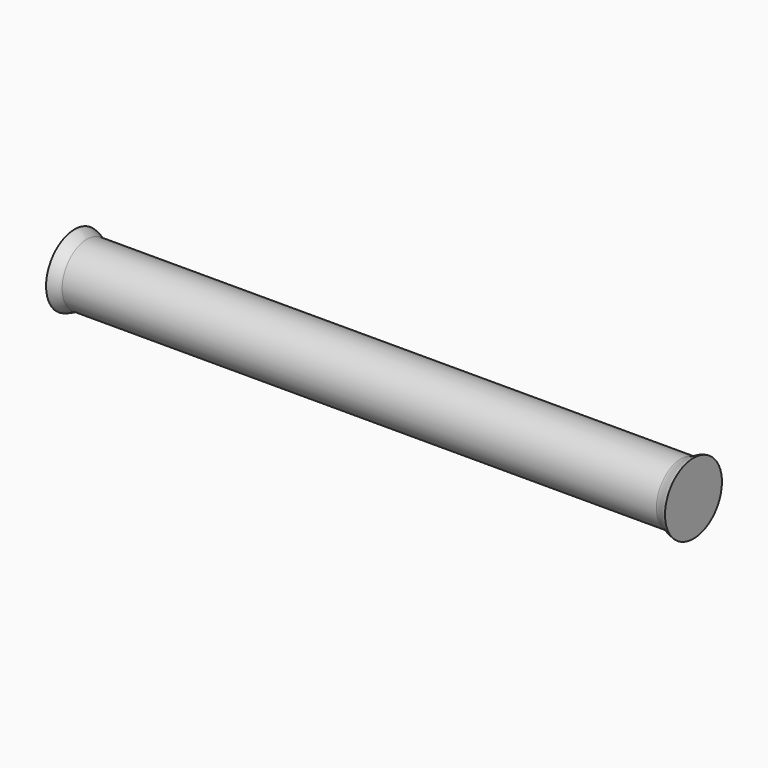
from build123d import *


with BuildPart() as f1:
    # F0 (on Front) → F1 (revolve)
    with BuildSketch(Plane.XZ):
        with BuildLine():
            Line((-200, 23), (-200, 0))
            Line((-200, 0), (200, 0))
            Line((200, 0), (200, 23))
            add(Edge.make_bspline(
                [(200, 23), (198.5, 23), (196.25, 21.5), (193, 20), (192, 20)],
                knots=[0, 0, 0, 0, 4.272002, 8.544004, 8.544004, 8.544004, 8.544004], degree=3))
            Line((192, 20), (0, 20))
            Line((0, 20), (-192, 20))
            add(Edge.make_bspline(
                [(-200, 23), (-198.5, 23), (-196.25, 21.5), (-193, 20), (-192, 20)],
                knots=[0, 0, 0, 0, 4.272002, 8.544004, 8.544004, 8.544004, 8.544004], degree=3))
        make_face()
    revolve(axis=Axis((0, 0, 0), (1, 0, 0)))


solid = f1.part
